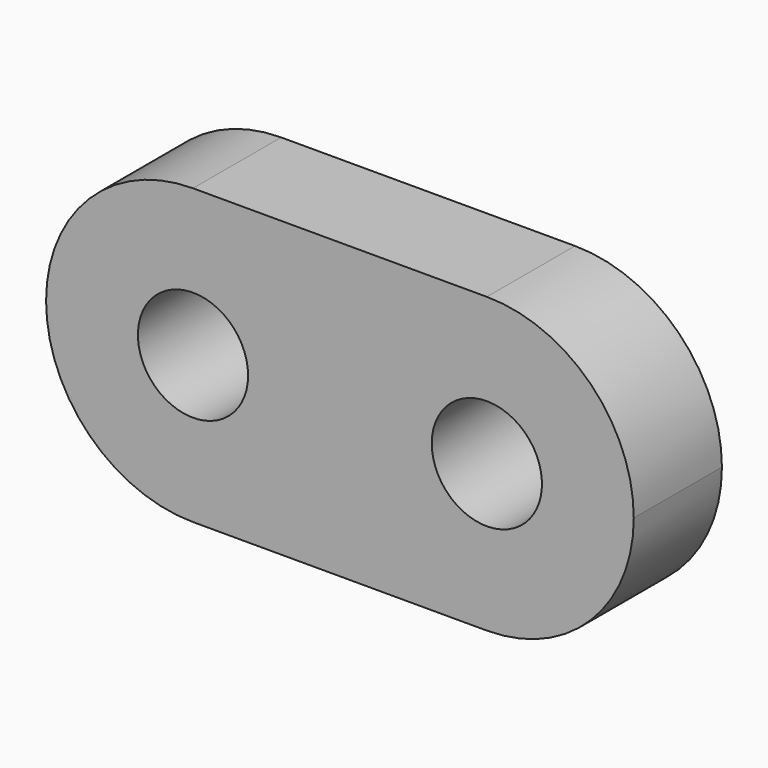
from build123d import *

# Parameters (mm, degrees)
F0_R     = 1.5
F1_DEPTH = 3


with BuildPart() as f1:
    # F0 (on Front) → F1 (new body)
    with BuildSketch(Plane.XZ):
        Circle(F0_R)
        with BuildLine():
            ThreePointArc((0, -4), (2.828427, -2.828427), (4, 0))
            ThreePointArc((4, 0), (2.828427, 2.828427), (0, 4))
            ThreePointArc((0, 4), (-4, 0), (0, -4))
        make_face()
        Circle(F0_R, mode=Mode.SUBTRACT)
        with BuildLine():
            ThreePointArc((0, 4), (2.828427, 2.828427), (4, 0))
            ThreePointArc((4, 0), (5.171573, 2.828427), (8, 4))
            Line((8, 4), (0, 4))
        make_face()
        with BuildLine():
            ThreePointArc((9.5, 0), (8, 1.5), (6.5, 0))
            ThreePointArc((6.5, 0), (8, -1.5), (9.5, 0))
        make_face()
        with BuildLine():
            ThreePointArc((8, 4), (5.171573, 2.828427), (4, 0))
            ThreePointArc((4, 0), (5.171573, -2.828427), (8, -4))
            ThreePointArc((8, -4), (10.828427, -2.828427), (12, 0))
            ThreePointArc((12, 0), (10.828427, 2.828427), (8, 4))
        make_face()
        with BuildLine():
            ThreePointArc((9.5, 0), (8, -1.5), (6.5, 0))
            ThreePointArc((6.5, 0), (8, 1.5), (9.5, 0))
        make_face(mode=Mode.SUBTRACT)
        with BuildLine():
            ThreePointArc((8, -4), (5.171573, -2.828427), (4, 0))
            ThreePointArc((4, 0), (2.828427, -2.828427), (0, -4))
            Line((0, -4), (8, -4))
        make_face()
    extrude(amount=F1_DEPTH)


solid = f1.part
